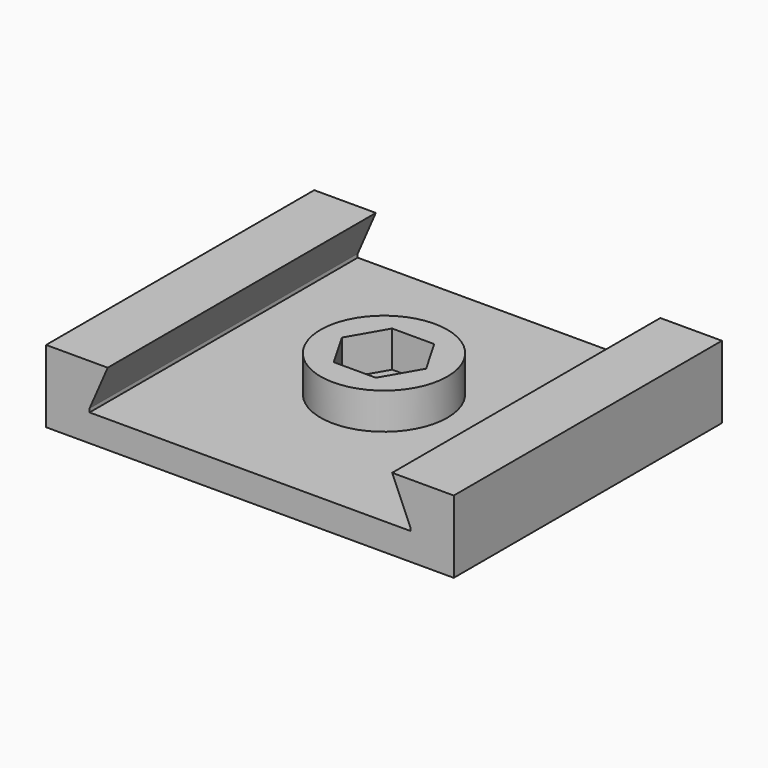
from build123d import *

# Parameters (mm, degrees)
F0_W     = 45
F0_H     = 37
F1_DEPTH = 8
F3_DEPTH = 37.001
F5_R     = 7
F6_DEPTH = 4
F4_R     = 2.75
F7_DEPTH = 25
F9_DEPTH = 4


with BuildPart() as f1:
    # F0 (on Top) → F1 (new body)
    with BuildSketch(Plane.XY):
        Rectangle(F0_W, F0_H)
    extrude(amount=F1_DEPTH)

    # F2 (on face) → F3 (cut, through all)
    with BuildSketch(Plane.XZ.offset(18.5)):
        Polygon((15.7, 8), (-15.7, 8), (-17.7, 3.392867), (-17.7, 3), (17.7, 3), (17.7, 3.392867), align=None)
    extrude(amount=-F3_DEPTH, mode=Mode.SUBTRACT)

    # F5 (on face) → F6 (join)
    with BuildSketch(Plane.XY.offset(3)):
        Circle(F5_R)
    extrude(amount=F6_DEPTH)

    # F4 (on face) → F7 (cut)
    with BuildSketch(Plane(origin=(0, 0, 0), x_dir=(1, 0, 0), z_dir=(0, 0, -1))):
        Circle(F4_R)
    extrude(amount=-F7_DEPTH, mode=Mode.SUBTRACT)

    # F8 (on face) → F9 (cut)
    with BuildSketch(Plane.XY.offset(7)):
        Polygon((2.325, -4.027018), (4.65, 0), (2.325, 4.027018), (-2.325, 4.027018), (-4.65, 0), (-2.325, -4.027018), align=None)
    extrude(amount=-F9_DEPTH, mode=Mode.SUBTRACT)


solid = f1.part
